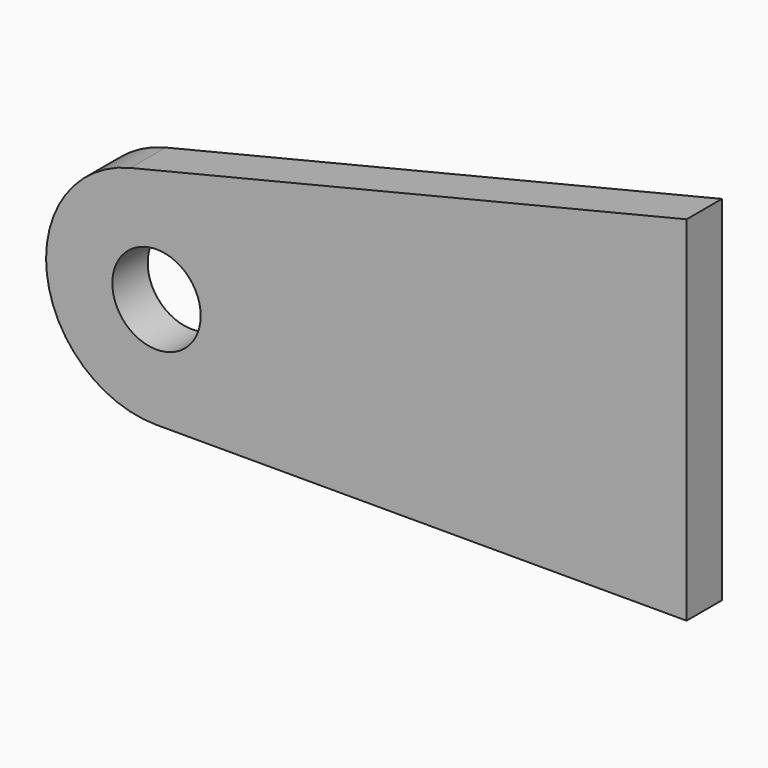
from build123d import *

# Parameters (mm, degrees)
F0_R     = 10
F1_DEPTH = 10


with BuildPart() as f1:
    # F0 (on Front) → F1 (new body)
    with BuildSketch(Plane.XZ):
        with BuildLine():
            ThreePointArc((-5.923694, 24.28806), (-24.821377, -2.983162), (0, -25))
            Line((0, -25), (120, -25))
            Line((120, -25), (120, 55))
            Line((120, 55), (-5.923694, 24.28806))
        make_face()
        Circle(F0_R, mode=Mode.SUBTRACT)
    extrude(amount=F1_DEPTH)


solid = f1.part
